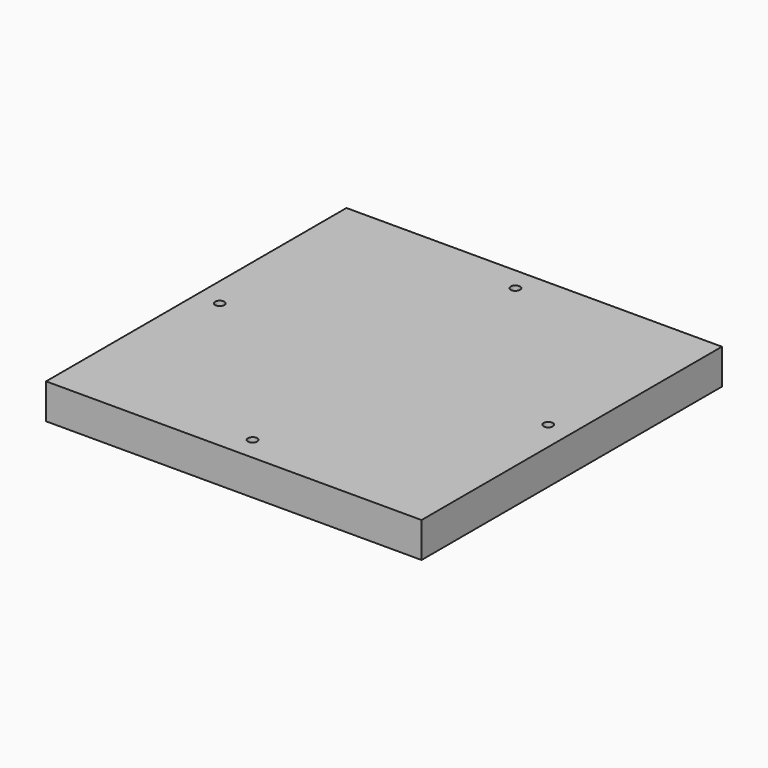
from build123d import *

# Parameters (mm, degrees)
F0_W     = 203.2
F0_H     = 203.2
F0_R     = 3.175
F1_DEPTH = 19.05
F3_D     = 5
F3_DEPTH = 19.05


with BuildPart() as f1:
    # F0 (on Top) → F1 (new body)
    with BuildSketch(Plane.XY):
        Rectangle(F0_W, F0_H)
        with Locations((-88.9, -88.9)):
            Circle(F0_R, mode=Mode.SUBTRACT)
        with Locations((88.9, -88.9)):
            Circle(F0_R, mode=Mode.SUBTRACT)
        with Locations((0, 19.05)):
            Circle(F0_R, mode=Mode.SUBTRACT)
        with Locations((-88.9, 88.9)):
            Circle(F0_R, mode=Mode.SUBTRACT)
        with Locations((88.9, 88.9)):
            Circle(F0_R, mode=Mode.SUBTRACT)
        with Locations((-88.9, -88.9)):
            Circle(F0_R)
        with Locations((88.9, -88.9)):
            Circle(F0_R)
        with Locations((0, 19.05)):
            Circle(F0_R)
        with Locations((-88.9, 88.9)):
            Circle(F0_R)
        with Locations((88.9, 88.9)):
            Circle(F0_R)
    extrude(amount=F1_DEPTH)

    # F3
    with Locations(Plane.XY.offset(19.05)):
        with Locations((0, -88.9), (88.9, 0), (-88.9, 0), (0, 88.9)):
            Hole(F3_D / 2, depth=F3_DEPTH)


with BuildPart() as f4_1:
    # F4: copy of F1
    add(f1.part)


solid = Compound([f1.part, f4_1.part])
